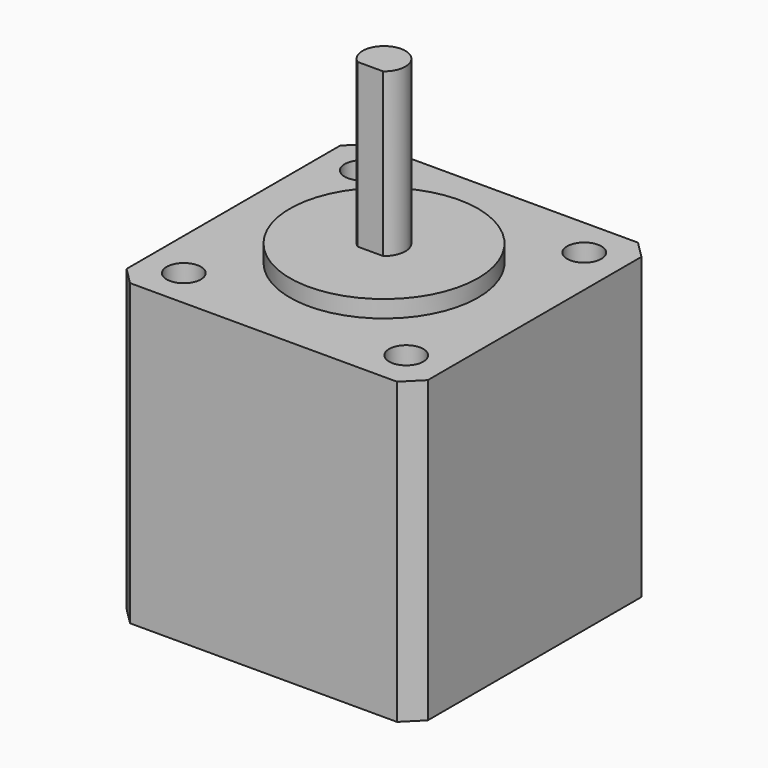
from build123d import *

# Parameters (mm, degrees)
F0_W      = 35.2
F0_H      = 35.2
F1_DEPTH  = 17.5
F2_SIZE   = 2
F3_R      = 11
F4_DEPTH  = 2
F5_R      = 2
F6_DEPTH  = 5
F7_R      = 2.5
F8_DEPTH  = 19
F10_W     = 5
F10_H     = 19
F11_DEPTH = 15.601


with BuildPart() as f1:
    # F0 (on Top) → F1 (new body, symmetric)
    with BuildSketch(Plane.XY):
        Rectangle(F0_W, F0_H)
    extrude(amount=F1_DEPTH, both=True)

    # F2
    f2_edges = [f1.edges().sort_by_distance(p)[0] for p in [
        (-17.6, 17.6, 0),
        (-17.6, -17.6, 0),
        (17.6, -17.6, 0),
        (17.6, 17.6, 0),
    ]]
    chamfer(f2_edges, length=F2_SIZE)

    # F3 (on face) → F4 (join)
    with BuildSketch(Plane.XY.offset(17.5)):
        Circle(F3_R)
    extrude(amount=F4_DEPTH)

    # F5 (on face) → F6 (cut)
    with BuildSketch(Plane.XY.offset(17.5)):
        with Locations((-13, 13)):
            Circle(F5_R)
        with Locations((13, 13)):
            Circle(F5_R)
        with Locations((-13, -13)):
            Circle(F5_R)
        with Locations((13, -13)):
            Circle(F5_R)
    extrude(amount=-F6_DEPTH, mode=Mode.SUBTRACT)

    # F7 (on face) → F8 (join)
    with BuildSketch(Plane.XY.offset(19.5)):
        Circle(F7_R)
    extrude(amount=F8_DEPTH)

    # F10 (on offset) → F11 (cut, through all)
    with BuildSketch(Plane.XZ.offset(2)):
        with Locations((0, 29)):
            Rectangle(F10_W, F10_H)
    extrude(amount=F11_DEPTH, mode=Mode.SUBTRACT)


solid = f1.part
